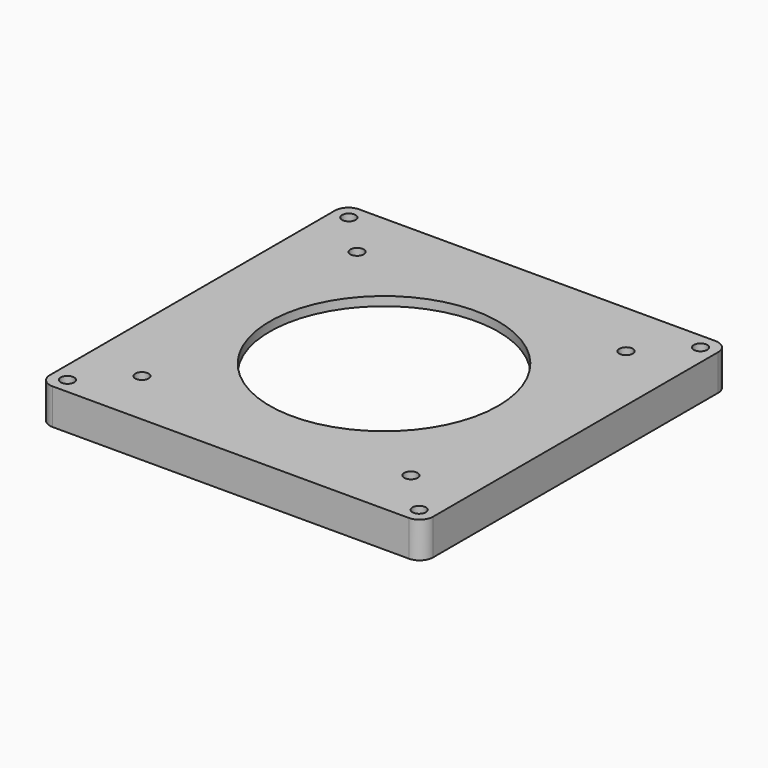
from build123d import *

# Parameters (mm, degrees)
SKETCH006_W     = 85.5
SKETCH006_H     = 85.5
SKETCH006_W_2   = 73.5
SKETCH006_H_2   = 73.5
PAD003_DEPTH    = 6
SKETCH007_W     = 85.5
SKETCH007_H     = 85.5
SKETCH007_R     = 25.5
PAD004_DEPTH    = 2
SKETCH008_R     = 1.5
POCKET_DEPTH    = 8.001
SKETCH009_R     = 1.5
POCKET001_DEPTH = 5
FILLET002_R     = 3


with BuildPart() as part:
    # Sketch006 → Pad003 (new body)
    with BuildSketch(Plane.XY):
        Rectangle(SKETCH006_W, SKETCH006_H)
        Rectangle(SKETCH006_W_2, SKETCH006_H_2, mode=Mode.SUBTRACT)
    extrude(amount=PAD003_DEPTH)

    # Sketch007 (on Face10 of Pad003) → Pad004 (join)
    with BuildSketch(Plane.XY.offset(6)):
        Rectangle(SKETCH007_W, SKETCH007_H)
        Circle(SKETCH007_R, mode=Mode.SUBTRACT)
    extrude(amount=PAD004_DEPTH)

    # Sketch008 (on Face4 of Pad004) → Pocket (cut, through all)
    with BuildSketch(Plane(origin=(0, 0, 0), x_dir=(1, 0, 0), z_dir=(0, 0, -1))):
        with Locations((-39.235281, 39.235281)):
            Circle(SKETCH008_R)
        with Locations((39.235281, 39.235281)):
            Circle(SKETCH008_R)
        with Locations((39.235281, -39.235281)):
            Circle(SKETCH008_R)
        with Locations((-39.235281, -39.235281)):
            Circle(SKETCH008_R)
    extrude(amount=-POCKET_DEPTH, mode=Mode.SUBTRACT)

    # Sketch009 (on Face17 of Pocket) → Pocket001 (cut)
    with BuildSketch(Plane.XY.offset(8)):
        with Locations((-30, 30)):
            Circle(SKETCH009_R)
        with Locations((30, 30)):
            Circle(SKETCH009_R)
        with Locations((30, -30)):
            Circle(SKETCH009_R)
        with Locations((-30, -30)):
            Circle(SKETCH009_R)
    extrude(amount=-POCKET001_DEPTH, mode=Mode.SUBTRACT)

    # Fillet002
    fillet002_edges = [part.edges().sort_by_distance(p)[0] for p in [
        (42.75, 42.75, 3),
        (-42.75, 42.75, 3),
        (-42.75, -42.75, 3),
        (42.75, -42.75, 3),
    ]]
    fillet(fillet002_edges, radius=FILLET002_R)


solid = part.part
